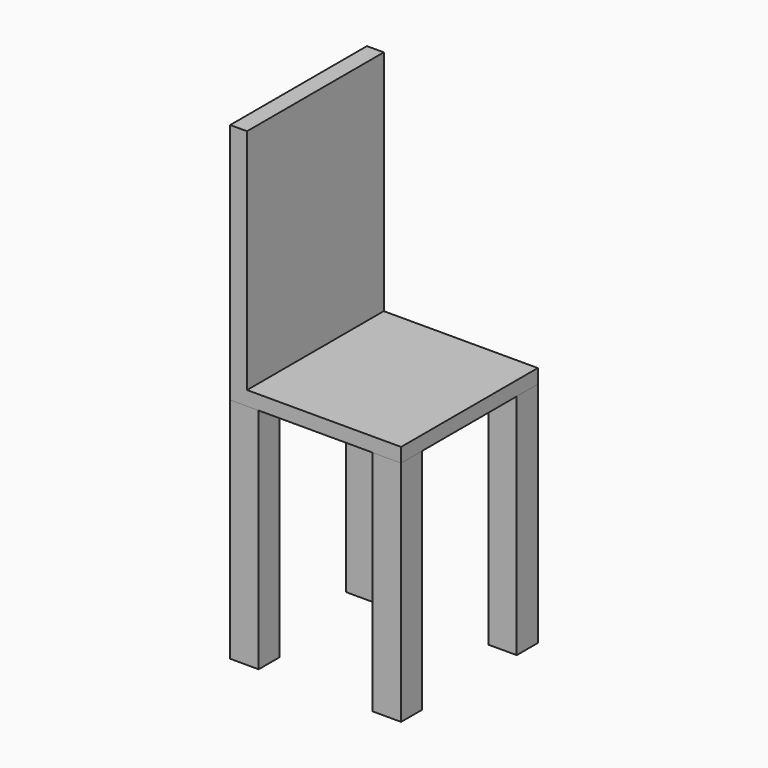
from build123d import *

# Parameters (mm, degrees)
F0_W     = 50.8
F0_H     = 46.954226
F1_DEPTH = 406.4
F2_W     = 304.8
F2_H     = 304.8
F3_DEPTH = 25.4
F4_W     = 30.078378
F4_H     = 304.8
F5_DEPTH = 406.4


with BuildPart() as f1:
    # F0 (on Top) → F1 (new body)
    with BuildSketch(Plane.XY):
        with Locations((279.4, 23.477113)):
            Rectangle(F0_W, F0_H)
        with Locations((25.4, 23.477113)):
            Rectangle(F0_W, F0_H)
        with Locations((25.4, 281.322887)):
            Rectangle(F0_W, F0_H)
        with Locations((279.4, 281.322887)):
            Rectangle(F0_W, F0_H)
    extrude(amount=F1_DEPTH)


with BuildPart() as f3:
    # F2 (on face) → F3 (new body)
    with BuildSketch(Plane.XY.offset(406.4)):
        with Locations((152.4, 152.4)):
            Rectangle(F2_W, F2_H)
    extrude(amount=F3_DEPTH)

    # F4 (on face) → F5 (join)
    with BuildSketch(Plane.XY.offset(431.8)):
        with Locations((15.039189, 152.4)):
            Rectangle(F4_W, F4_H)
    extrude(amount=F5_DEPTH)


solid = Compound([f1.part, f3.part])
